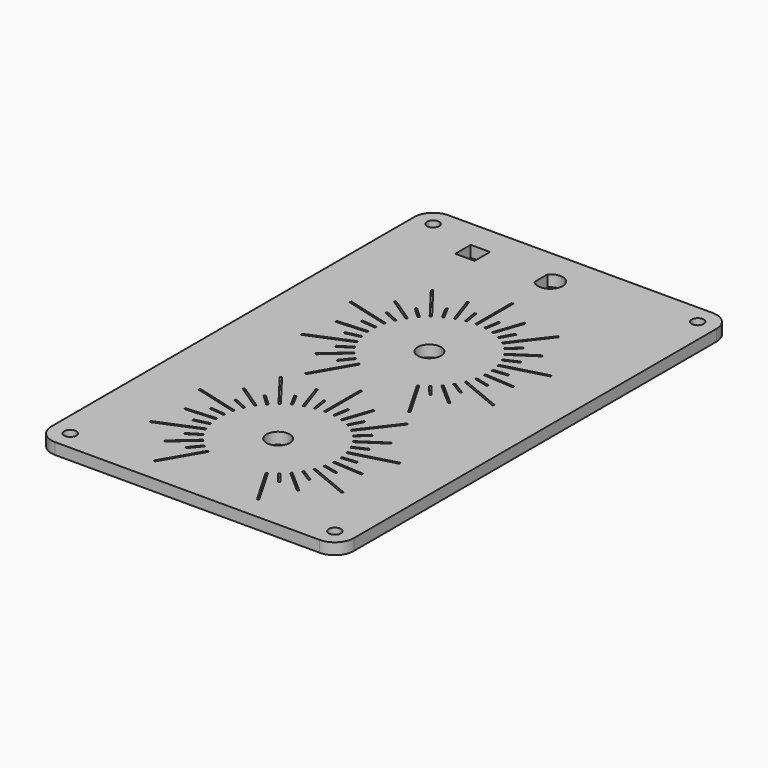
from build123d import *

# Parameters (mm, degrees)
F1_DEPTH = 3
F2_R     = 3.1
F3_DEPTH = 3.001
F4_R     = 1.6
F5_DEPTH = 3.001
F6_W     = 5.1
F6_H     = 5.1
F7_DEPTH = 3.001
F8_W     = 0.5
F8_H     = 4
F9_DEPTH = 1


with BuildPart() as f1:
    # F0 (on Top) → F1 (new body)
    with BuildSketch(Plane.XY):
        with BuildLine():
            Line((35, 65), (-35, 65))
            ThreePointArc((-35, 65), (-38.5355339059, 63.5355339059), (-40, 60))
            Line((-40, 60), (-40, -60))
            ThreePointArc((-40, -60), (-38.5355339059, -63.5355339059), (-35, -65))
            Line((-35, -65), (35, -65))
            ThreePointArc((35, -65), (38.5355339059, -63.5355339059), (40, -60))
            Line((40, -60), (40, 60))
            ThreePointArc((40, 60), (38.5355339059, 63.5355339059), (35, 65))
        make_face()
    extrude(amount=F1_DEPTH)

    # F2 (on face) → F3 (cut, through all)
    with BuildSketch(Plane.XY.offset(3)):
        with Locations((0, 15)):
            Circle(F2_R)
        with Locations((0, -35)):
            Circle(F2_R)
    extrude(amount=-F3_DEPTH, mode=Mode.SUBTRACT)

    # F4 (on face) → F5 (cut, through all)
    with BuildSketch(Plane.XY.offset(3)):
        with Locations((-35, 60)):
            Circle(F4_R)
        with Locations((35, 60)):
            Circle(F4_R)
        with Locations((35, -60)):
            Circle(F4_R)
        with Locations((-35, -60)):
            Circle(F4_R)
    extrude(amount=-F5_DEPTH, mode=Mode.SUBTRACT)

    # F6 (on face) → F7 (cut, through all)
    with BuildSketch(Plane.XY.offset(3)):
        with BuildLine():
            Line((-2.4561, 57.1495618158), (-2.4561, 52.8504381842))
            ThreePointArc((-2.4561, 52.8504381842), (3.2639, 55), (-2.4561, 57.1495618158))
        make_face()
        with Locations((-20.55, 55)):
            Rectangle(F6_W, F6_H)
    extrude(amount=-F7_DEPTH, mode=Mode.SUBTRACT)

    # F8 (on face) → F9 (cut)
    with BuildSketch(Plane.XY.offset(3)):
        with Locations((0, 36.4979837398)):
            Rectangle(F8_W, F8_H)
        with Locations((0, 32.4979837398)):
            Rectangle(F8_W, F8_H)
        with Locations((0, 40.4979837398)):
            Rectangle(F8_W, F8_H)
        Polygon((16.5413735412, 36.9678076085), (14.1063278252, 33.7943942474), (14.5030044954, 33.4900135329), (16.9380502114, 36.663426894), align=None)
        Polygon((14.5030044954, 33.4900135329), (14.1063278252, 33.7943942474), (11.6712821092, 30.6209808862), (12.0679587793, 30.3166001717), align=None)
        Polygon((12.0679587793, 30.3166001717), (11.6712821092, 30.6209808862), (9.2362363931, 27.447567525), (9.6329130633, 27.1431868105), align=None)
        Polygon((26.4963079039, 22.3584833504), (22.6326045987, 21.3232071699), (22.7620141213, 20.8402442568), (26.6257174265, 21.8755204372), align=None)
        Polygon((22.7620141213, 20.8402442568), (22.6326045987, 21.3232071699), (18.7689012936, 20.2879309895), (18.8983108161, 19.8049680764), align=None)
        Polygon((18.8983108161, 19.8049680764), (18.7689012936, 20.2879309895), (14.9051979884, 19.2526548091), (15.034607511, 18.769691896), align=None)
        Polygon((25.5004952206, 4.7079470825), (21.8049770906, 6.2386808119), (21.6136353744, 5.7767410457), (25.3091535045, 4.2460073162), align=None)
        Polygon((21.6136353744, 5.7767410457), (21.8049770906, 6.2386808119), (18.1094589606, 7.7694145414), (17.9181172444, 7.3074747751), align=None)
        Polygon((17.9181172444, 7.3074747751), (18.1094589606, 7.7694145414), (14.4139408305, 9.3001482708), (14.2225991143, 8.8382085046), align=None)
        Polygon((13.9654982209, -8.6889524715), (11.9654982209, -5.2248508564), (11.532485519, -5.4748508564), (13.532485519, -8.9389524715), align=None)
        Polygon((11.532485519, -5.4748508564), (11.9654982209, -5.2248508564), (9.9654982209, -1.7607492413), (9.532485519, -2.0107492413), align=None)
        Polygon((9.532485519, -2.0107492413), (9.9654982209, -1.7607492413), (7.9654982209, 1.7033523739), (7.532485519, 1.4533523739), align=None)
        Polygon((7.7899118614, 37.1705889193), (7.3164467967, 37.331308652), (6.0306889354, 33.543588134), (6.5041540002, 33.3828684013), align=None)
        Polygon((6.5041540002, 33.3828684013), (6.0306889354, 33.543588134), (4.7449310742, 29.755867616), (5.218396139, 29.5951478833), align=None)
        Polygon((19.6767519883, 27.8469128988), (19.3989668718, 28.2626477049), (16.0730884226, 26.0403667728), (16.3508735391, 25.6246319667), align=None)
        Polygon((16.3508735391, 25.6246319667), (16.0730884226, 26.0403667728), (12.7472099734, 23.8180858407), (13.0249950899, 23.4023510346), align=None)
        Polygon((23.4313219706, 13.213693602), (23.4640235352, 13.7126230636), (19.4725878423, 13.9742355805), (19.4398862776, 13.4753061189), align=None)
        Polygon((19.4398862776, 13.4753061189), (19.4725878423, 13.9742355805), (15.4811521493, 14.2358480975), (15.4484505847, 13.7369186358), align=None)
        Polygon((17.5018831173, -0.681257194), (17.8315560249, -0.3053372903), (14.824196795, 2.3320459701), (14.4945238874, 1.9561260664), align=None)
        Polygon((14.4945238874, 1.9561260664), (14.824196795, 2.3320459701), (11.816837565, 4.9694292305), (11.4871646575, 4.5935093268), align=None)
        Polygon((2.771212231, 30.2502584493), (3.4227941246, 34.1968317777), (2.9294724585, 34.2782795144), (2.2778905649, 30.331706186), align=None)
        Polygon((7.5261792784, 28.5501522305), (9.4117662257, 32.0778372879), (8.9708055936, 32.3135356563), (7.0852186463, 28.7858505989), align=None)
        Polygon((11.4823196065, 25.4118363632), (14.4017758973, 28.1462055713), (14.0599797462, 28.5111376077), (11.1405234555, 25.7767683996), align=None)
        Polygon((14.2197295053, 21.168410881), (17.863184805, 22.8192390002), (17.6568312901, 23.2746709127), (14.0133759904, 21.6238427935), align=None)
        Polygon((15.4478609972, 16.2702718654), (19.4285999039, 16.6623404267), (19.3795913337, 17.15993279), (15.398852427, 16.7678642287), align=None)
        Polygon((15.0363605237, 11.237306523), (18.9318684408, 10.3290014708), (19.0454065723, 10.8159399605), (15.1498986552, 11.7242450126), align=None)
        Polygon((13.0289046385, 6.6037124917), (16.4257133646, 4.4914410891), (16.6897472899, 4.9160421799), (13.2929385638, 7.0283135825), align=None)
        Polygon((9.6385641893, 2.861298242), (12.1761373259, -0.2307435714), (12.5626425526, 0.0864530707), (10.025069416, 3.1784948841), align=None)
        Polygon((-7.9654982209, 1.7033523739), (-9.9654982209, -1.7607492413), (-9.532485519, -2.0107492413), (-7.532485519, 1.4533523739), align=None)
        Polygon((-9.532485519, -2.0107492413), (-9.9654982209, -1.7607492413), (-11.9654982209, -5.2248508564), (-11.532485519, -5.4748508564), align=None)
        Polygon((-11.532485519, -5.4748508564), (-11.9654982209, -5.2248508564), (-13.9654982209, -8.6889524715), (-13.532485519, -8.9389524715), align=None)
        Polygon((-14.4139408305, 9.3001482708), (-18.1094589606, 7.7694145414), (-17.9181172444, 7.3074747751), (-14.2225991143, 8.8382085046), align=None)
        Polygon((-17.9181172444, 7.3074747751), (-18.1094589606, 7.7694145414), (-21.8049770906, 6.2386808119), (-21.6136353744, 5.7767410457), align=None)
        Polygon((-21.6136353744, 5.7767410457), (-21.8049770906, 6.2386808119), (-25.5004952206, 4.7079470825), (-25.3091535045, 4.2460073162), align=None)
        Polygon((-15.4811521493, 14.2358480975), (-19.4725878423, 13.9742355805), (-19.4398862776, 13.4753061189), (-15.4484505847, 13.7369186358), align=None)
        Polygon((-19.4398862776, 13.4753061189), (-19.4725878423, 13.9742355805), (-23.4640235352, 13.7126230636), (-23.4313219706, 13.213693602), align=None)
        Polygon((-11.6712821092, 30.6209808862), (-14.1063278252, 33.7943942474), (-14.5030044954, 33.4900135329), (-12.0679587793, 30.3166001717), align=None)
        Polygon((-14.5030044954, 33.4900135329), (-14.1063278252, 33.7943942474), (-16.5413735412, 36.9678076085), (-16.9380502114, 36.663426894), align=None)
        Polygon((-9.2362363931, 27.447567525), (-11.6712821092, 30.6209808862), (-12.0679587793, 30.3166001717), (-9.6329130633, 27.1431868105), align=None)
        Polygon((-12.7472099734, 23.8180858407), (-16.0730884226, 26.0403667728), (-16.3508735391, 25.6246319667), (-13.0249950899, 23.4023510346), align=None)
        Polygon((-16.3508735391, 25.6246319667), (-16.0730884226, 26.0403667728), (-19.3989668718, 28.2626477049), (-19.6767519883, 27.8469128988), align=None)
        Polygon((-18.7689012936, 20.2879309895), (-22.6326045987, 21.3232071699), (-22.7620141213, 20.8402442568), (-18.8983108161, 19.8049680764), align=None)
        Polygon((-22.7620141213, 20.8402442568), (-22.6326045987, 21.3232071699), (-26.4963079039, 22.3584833504), (-26.6257174265, 21.8755204372), align=None)
        Polygon((-14.9051979884, 19.2526548091), (-18.7689012936, 20.2879309895), (-18.8983108161, 19.8049680764), (-15.034607511, 18.769691896), align=None)
        Polygon((-4.7449310742, 29.755867616), (-6.0306889354, 33.543588134), (-6.5041540002, 33.3828684013), (-5.218396139, 29.5951478833), align=None)
        Polygon((-6.5041540002, 33.3828684013), (-6.0306889354, 33.543588134), (-7.3164467967, 37.331308652), (-7.7899118614, 37.1705889193), align=None)
        Polygon((-11.816837565, 4.9694292305), (-14.824196795, 2.3320459701), (-14.4945238874, 1.9561260664), (-11.4871646575, 4.5935093268), align=None)
        Polygon((-14.4945238874, 1.9561260664), (-14.824196795, 2.3320459701), (-17.8315560249, -0.3053372903), (-17.5018831173, -0.681257194), align=None)
        Polygon((-13.2929385638, 7.0283135825), (-16.6897472899, 4.9160421799), (-16.4257133646, 4.4914410891), (-13.0289046385, 6.6037124917), align=None)
        Polygon((-10.025069416, 3.1784948841), (-12.5626425526, 0.0864530707), (-12.1761373259, -0.2307435714), (-9.6385641893, 2.861298242), align=None)
        Polygon((-15.398852427, 16.7678642287), (-19.3795913337, 17.15993279), (-19.4285999039, 16.6623404267), (-15.4478609972, 16.2702718654), align=None)
        Polygon((-11.1405234555, 25.7767683996), (-14.0599797462, 28.5111376077), (-14.4017758973, 28.1462055713), (-11.4823196065, 25.4118363632), align=None)
        Polygon((-14.0133759904, 21.6238427935), (-17.6568312901, 23.2746709127), (-17.863184805, 22.8192390002), (-14.2197295053, 21.168410881), align=None)
        Polygon((-2.2778905649, 30.331706186), (-2.9294724585, 34.2782795144), (-3.4227941246, 34.1968317777), (-2.771212231, 30.2502584493), align=None)
        Polygon((-7.0852186463, 28.7858505989), (-8.9708055936, 32.3135356563), (-9.4117662257, 32.0778372879), (-7.5261792784, 28.5501522305), align=None)
        Polygon((-15.1498986552, 11.7242450126), (-19.0454065723, 10.8159399605), (-18.9318684408, 10.3290014708), (-15.0363605237, 11.237306523), align=None)
        Polygon((21.6136353744, -44.2232589543), (21.8049770906, -43.7613191881), (18.1094589606, -42.2305854586), (17.9181172444, -42.6925252249), align=None)
        Polygon((25.5004952206, -45.2920529175), (21.8049770906, -43.7613191881), (21.6136353744, -44.2232589543), (25.3091535045, -45.7539926838), align=None)
        Polygon((17.9181172444, -42.6925252249), (18.1094589606, -42.2305854586), (14.4139408305, -40.6998517292), (14.2225991143, -41.1617914954), align=None)
        Polygon((22.6326045987, -28.6767928301), (22.7620141213, -29.1597557432), (26.6257174265, -28.1244795628), (26.4963079039, -27.6415166496), align=None)
        Polygon((18.8983108161, -30.1950319236), (22.7620141213, -29.1597557432), (22.6326045987, -28.6767928301), (18.7689012936, -29.7120690105), align=None)
        Polygon((15.034607511, -31.230308104), (18.8983108161, -30.1950319236), (18.7689012936, -29.7120690105), (14.9051979884, -30.7473451909), align=None)
        Polygon((16.5413735412, -13.0321923915), (14.1063278252, -16.2056057526), (14.5030044954, -16.5099864671), (16.9380502114, -13.336573106), align=None)
        Polygon((14.5030044954, -16.5099864671), (14.1063278252, -16.2056057526), (11.6712821092, -19.3790191138), (12.0679587793, -19.6833998283), align=None)
        Polygon((12.0679587793, -19.6833998283), (11.6712821092, -19.3790191138), (9.2362363931, -22.552432475), (9.6329130633, -22.8568131895), align=None)
        with Locations((0, -9.5020162602)):
            Rectangle(F8_W, F8_H)
        with Locations((0, -13.5020162602)):
            Rectangle(F8_W, F8_H)
        with Locations((0, -17.5020162602)):
            Rectangle(F8_W, F8_H)
        Polygon((11.532485519, -55.4748508564), (11.9654982209, -55.2248508564), (9.9654982209, -51.7607492413), (9.532485519, -52.0107492413), align=None)
        Polygon((13.9654982209, -58.6889524715), (11.9654982209, -55.2248508564), (11.532485519, -55.4748508564), (13.532485519, -58.9389524715), align=None)
        Polygon((9.532485519, -52.0107492413), (9.9654982209, -51.7607492413), (7.9654982209, -48.2966476261), (7.532485519, -48.5466476261), align=None)
        Polygon((14.4945238874, -48.0438739336), (14.824196795, -47.6679540299), (11.816837565, -45.0305707695), (11.4871646575, -45.4064906732), align=None)
        Polygon((17.8315560249, -50.3053372903), (14.824196795, -47.6679540299), (14.4945238874, -48.0438739336), (17.5018831173, -50.681257194), align=None)
        Polygon((7.7899118614, -12.8294110807), (7.3164467967, -12.668691348), (6.0306889354, -16.456411866), (6.5041540002, -16.6171315987), align=None)
        Polygon((6.5041540002, -16.6171315987), (6.0306889354, -16.456411866), (4.7449310742, -20.244132384), (5.218396139, -20.4048521167), align=None)
        Polygon((19.4725878423, -36.0257644195), (19.4398862776, -36.5246938811), (23.4313219706, -36.786306398), (23.4640235352, -36.2873769364), align=None)
        Polygon((15.4484505847, -36.2630813642), (19.4398862776, -36.5246938811), (19.4725878423, -36.0257644195), (15.4811521493, -35.7641519025), align=None)
        Polygon((7.5261792784, -21.4498477695), (9.4117662257, -17.9221627121), (8.9708055936, -17.6864643437), (7.0852186463, -21.2141494011), align=None)
        Polygon((16.0730884226, -23.9596332272), (16.3508735391, -24.3753680333), (19.6767519883, -22.1530871012), (19.3989668718, -21.7373522951), align=None)
        Polygon((13.0249950899, -26.5976489654), (16.3508735391, -24.3753680333), (16.0730884226, -23.9596332272), (12.7472099734, -26.1819141593), align=None)
        Polygon((13.0289046385, -43.3962875083), (16.4257133646, -45.5085589109), (16.6897472899, -45.0839578201), (13.2929385638, -42.9716864175), align=None)
        Polygon((18.9318684408, -39.6709985292), (19.0454065723, -39.1840600395), (15.1498986552, -38.2757549874), (15.0363605237, -38.762693477), align=None)
        Polygon((11.4823196065, -24.5881636368), (14.4017758973, -21.8537944287), (14.0599797462, -21.4888623923), (11.1405234555, -24.2232316004), align=None)
        Polygon((-22.7620141213, -29.1597557432), (-22.6326045987, -28.6767928301), (-26.4963079039, -27.6415166496), (-26.6257174265, -28.1244795628), align=None)
        Polygon((-18.7689012936, -29.7120690105), (-22.6326045987, -28.6767928301), (-22.7620141213, -29.1597557432), (-18.8983108161, -30.1950319236), align=None)
        Polygon((-14.9051979884, -30.7473451909), (-18.7689012936, -29.7120690105), (-18.8983108161, -30.1950319236), (-15.034607511, -31.230308104), align=None)
        Polygon((-13.532485519, -58.9389524715), (-11.532485519, -55.4748508564), (-11.9654982209, -55.2248508564), (-13.9654982209, -58.6889524715), align=None)
        Polygon((-11.9654982209, -55.2248508564), (-11.532485519, -55.4748508564), (-9.532485519, -52.0107492413), (-9.9654982209, -51.7607492413), align=None)
        Polygon((-9.9654982209, -51.7607492413), (-9.532485519, -52.0107492413), (-7.532485519, -48.5466476261), (-7.9654982209, -48.2966476261), align=None)
        Polygon((3.4227941246, -15.8031682223), (2.9294724585, -15.7217204856), (2.2778905649, -19.668293814), (2.771212231, -19.7497415507), align=None)
        Polygon((17.863184805, -27.1807609998), (17.6568312901, -26.7253290873), (14.0133759904, -28.3761572065), (14.2197295053, -28.831589119), align=None)
        Polygon((12.1761373259, -50.2307435714), (12.5626425526, -49.9135469293), (10.025069416, -46.8215051159), (9.6385641893, -47.138701758), align=None)
        Polygon((19.4285999039, -33.3376595733), (19.3795913337, -32.84006721), (15.398852427, -33.2321357713), (15.4478609972, -33.7297281346), align=None)
        Polygon((-13.2929385638, -42.9716864175), (-16.6897472899, -45.0839578201), (-16.4257133646, -45.5085589109), (-13.0289046385, -43.3962875083), align=None)
        Polygon((-14.824196795, -47.6679540299), (-14.4945238874, -48.0438739336), (-11.4871646575, -45.4064906732), (-11.816837565, -45.0305707695), align=None)
        Polygon((-17.5018831173, -50.681257194), (-14.4945238874, -48.0438739336), (-14.824196795, -47.6679540299), (-17.8315560249, -50.3053372903), align=None)
        Polygon((-6.0306889354, -16.456411866), (-6.5041540002, -16.6171315987), (-5.218396139, -20.4048521167), (-4.7449310742, -20.244132384), align=None)
        Polygon((-7.7899118614, -12.8294110807), (-6.5041540002, -16.6171315987), (-6.0306889354, -16.456411866), (-7.3164467967, -12.668691348), align=None)
        Polygon((-17.9181172444, -42.6925252249), (-18.1094589606, -42.2305854586), (-21.8049770906, -43.7613191881), (-21.6136353744, -44.2232589543), align=None)
        Polygon((-14.4139408305, -40.6998517292), (-18.1094589606, -42.2305854586), (-17.9181172444, -42.6925252249), (-14.2225991143, -41.1617914954), align=None)
        Polygon((-21.6136353744, -44.2232589543), (-21.8049770906, -43.7613191881), (-25.5004952206, -45.2920529175), (-25.3091535045, -45.7539926838), align=None)
        Polygon((-14.0599797462, -21.4888623923), (-14.4017758973, -21.8537944287), (-11.4823196065, -24.5881636368), (-11.1405234555, -24.2232316004), align=None)
        Polygon((-19.4398862776, -36.5246938811), (-19.4725878423, -36.0257644195), (-23.4640235352, -36.2873769364), (-23.4313219706, -36.786306398), align=None)
        Polygon((-15.4811521493, -35.7641519025), (-19.4725878423, -36.0257644195), (-19.4398862776, -36.5246938811), (-15.4484505847, -36.2630813642), align=None)
        Polygon((-16.0730884226, -23.9596332272), (-16.3508735391, -24.3753680333), (-13.0249950899, -26.5976489654), (-12.7472099734, -26.1819141593), align=None)
        Polygon((-19.6767519883, -22.1530871012), (-16.3508735391, -24.3753680333), (-16.0730884226, -23.9596332272), (-19.3989668718, -21.7373522951), align=None)
        Polygon((-7.0852186463, -21.2141494011), (-8.9708055936, -17.6864643437), (-9.4117662257, -17.9221627121), (-7.5261792784, -21.4498477695), align=None)
        Polygon((-10.025069416, -46.8215051159), (-12.5626425526, -49.9135469293), (-12.1761373259, -50.2307435714), (-9.6385641893, -47.138701758), align=None)
        Polygon((-14.2197295053, -28.831589119), (-14.0133759904, -28.3761572065), (-17.6568312901, -26.7253290873), (-17.863184805, -27.1807609998), align=None)
        Polygon((-14.5030044954, -16.5099864671), (-14.1063278252, -16.2056057526), (-16.5413735412, -13.0321923915), (-16.9380502114, -13.336573106), align=None)
        Polygon((-11.6712821092, -19.3790191138), (-14.1063278252, -16.2056057526), (-14.5030044954, -16.5099864671), (-12.0679587793, -19.6833998283), align=None)
        Polygon((-9.2362363931, -22.552432475), (-11.6712821092, -19.3790191138), (-12.0679587793, -19.6833998283), (-9.6329130633, -22.8568131895), align=None)
        Polygon((-15.398852427, -33.2321357713), (-19.3795913337, -32.84006721), (-19.4285999039, -33.3376595733), (-15.4478609972, -33.7297281346), align=None)
        Polygon((-2.9294724585, -15.7217204856), (-3.4227941246, -15.8031682223), (-2.771212231, -19.7497415507), (-2.2778905649, -19.668293814), align=None)
        Polygon((-15.1498986552, -38.2757549874), (-19.0454065723, -39.1840600395), (-18.9318684408, -39.6709985292), (-15.0363605237, -38.762693477), align=None)
    extrude(amount=-F9_DEPTH, mode=Mode.SUBTRACT)


solid = f1.part
